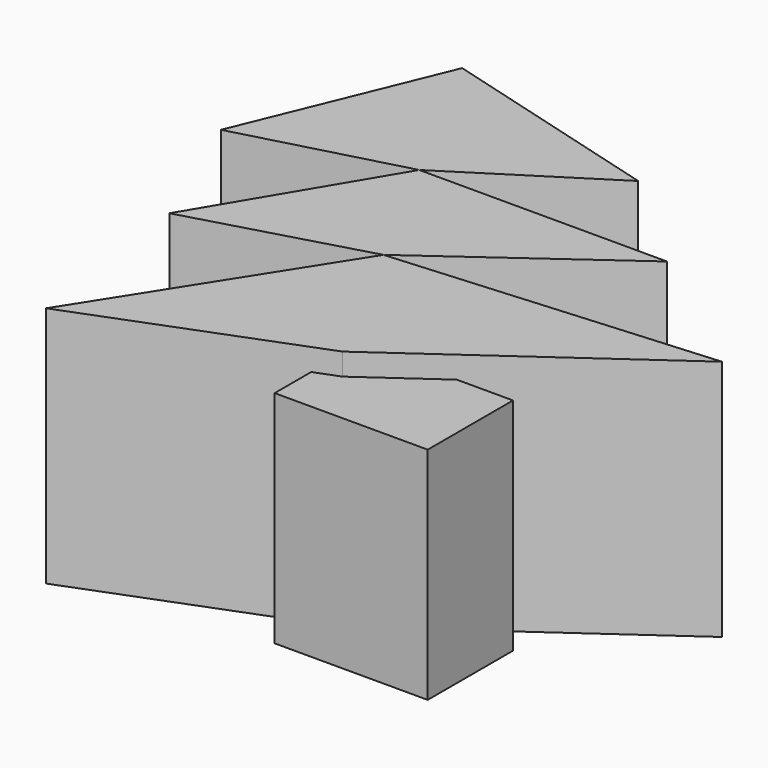
from build123d import *

# Parameters (mm, degrees)
F1_DEPTH = 27.94
F2_W     = 17.645517
F2_H     = 12.287821
F3_DEPTH = 25.4


with BuildPart() as f1:
    # F0 (on Top) → F1 (new body)
    with BuildSketch(Plane.XY):
        Polygon((-11.825787, 48.928581), (-37.948411, 56.215174), (-28.561372, 38.290305), align=None)
        Polygon((16.068952, 26.123529), (-20.739531, 23.354234), (-11.825787, 6.333136), align=None)
        Polygon((-11.825787, 6.333136), (-20.739531, 23.354234), (-37.948411, -3.750654), align=None)
        Polygon((0, 38.290305), (-28.561372, 38.290305), (-20.739531, 23.354234), align=None)
        Polygon((-20.739531, 23.354234), (-28.561372, 38.290305), (-40.8496, 17.651675), align=None)
        Polygon((-28.561372, 38.290305), (-37.948411, 56.215174), (-47.386874, 33.260461), align=None)
    extrude(amount=F1_DEPTH)

    # F2 (on Top) → F3 (join)
    with BuildSketch(Plane.XY):
        with Locations((-5.77285, 6.14391)):
            Rectangle(F2_W, F2_H)
    extrude(amount=F3_DEPTH)


solid = f1.part
